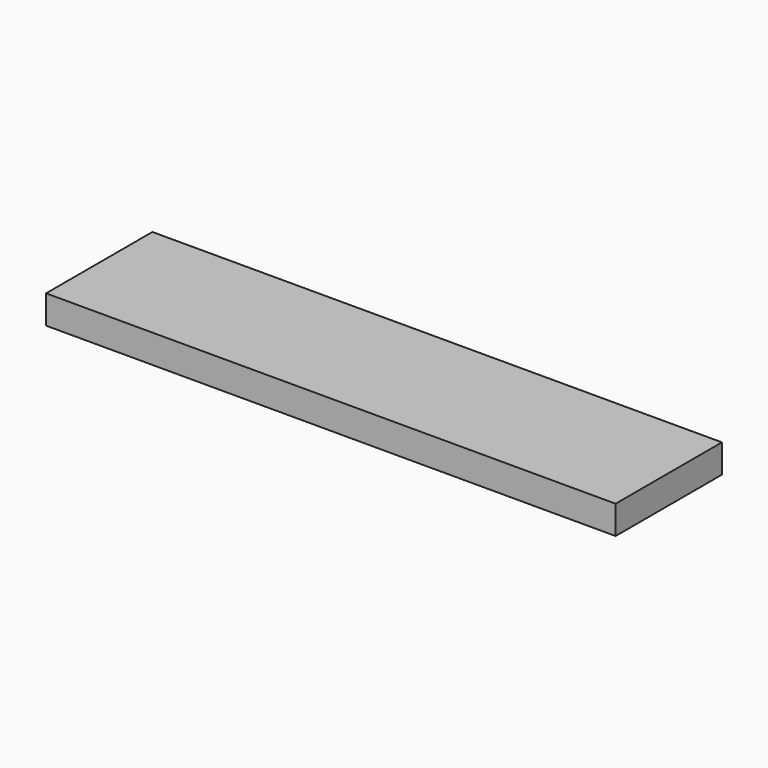
from build123d import *

# Parameters (mm, degrees)
SKETCH_W  = 60
SKETCH_H  = 14
PAD_DEPTH = 3


with BuildPart() as part:
    # Sketch → Pad (new body)
    with BuildSketch(Plane.XY):
        with Locations((30, 7)):
            Rectangle(SKETCH_W, SKETCH_H)
    extrude(amount=PAD_DEPTH)


solid = part.part
